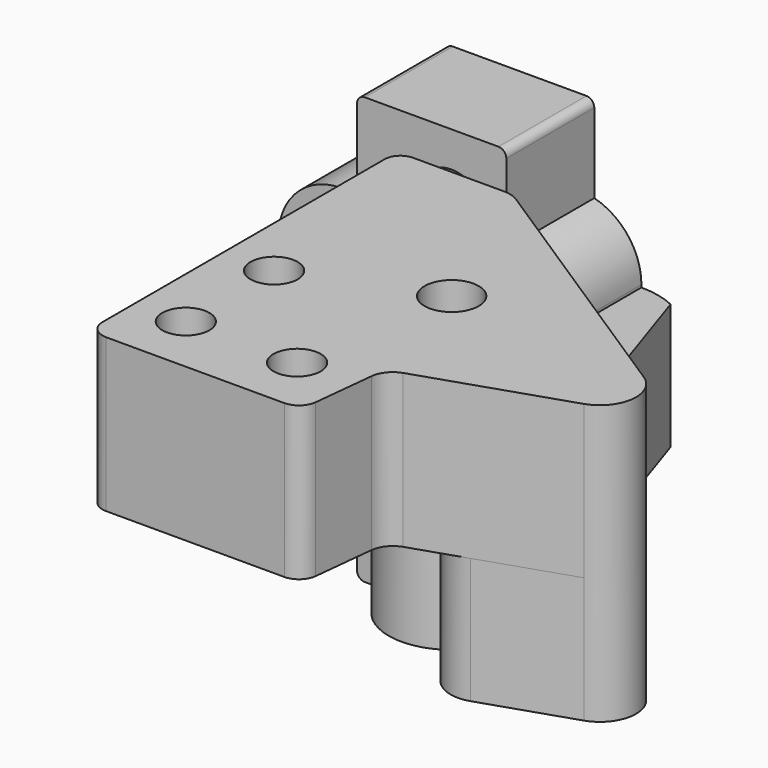
from build123d import *

# Parameters (mm, degrees)
SKETCH_R          = 2.35
PAD_DEPTH         = 7
SKETCH001_R       = 2
PAD001_DEPTH      = 4
PAD001_DEPTH_BACK = 4
SKETCH013_W       = 6
SKETCH013_H       = 3
POCKET_DEPTH      = 7
PAD003_DEPTH      = 17.743
PAD005_DEPTH      = 9.743
PAD006_DEPTH      = 17.743
SKETCH016_W       = 6
SKETCH016_H       = 3
POCKET001_DEPTH   = 7
SKETCH017_R       = 1.725
POCKET002_DEPTH   = 9.744
SKETCH018_R       = 1.5
POCKET003_DEPTH   = 17.744
SKETCH019_R       = 2.75
POCKET004_DEPTH   = 5
SKETCH006_R       = 2
PAD004_DEPTH      = 8


with BuildPart() as body:
    # Sketch → Pad (new body)
    with BuildSketch(Plane.XZ.offset(-17.582)):
        with BuildLine():
            Line((-13.8, -9.708), (-13.8, -17.74))
            ThreePointArc((-13.8, -17.74), (-12.628427, -20.568427), (-9.8, -21.74))
            Line((-9.8, -21.74), (-8.8, -21.74))
            Line((-8.8, -21.74), (-8.8, -26.805))
            ThreePointArc((-8.8, -26.805), (-8.653553, -27.158553), (-8.3, -27.305))
            Line((-8.3, -27.305), (0.2, -27.305))
            ThreePointArc((0.2, -27.305), (0.553553, -27.158553), (0.7, -26.805))
            Line((0.7, -26.805), (0.7, -21.74))
            ThreePointArc((0.7, -21.74), (2.862278, -20.316506), (3.7, -17.867017))
            Line((3.7, -17.867017), (3.7, -9.580983))
            ThreePointArc((3.7, -9.580983), (2.862278, -7.131494), (0.7, -5.708))
            Line((0.7, -5.708), (0.7, -0.643))
            ThreePointArc((0.7, -0.643), (0.553553, -0.289447), (0.2, -0.143))
            Line((0.2, -0.143), (-8.3, -0.143))
            ThreePointArc((-8.3, -0.143), (-8.653553, -0.289447), (-8.8, -0.643))
            Line((-8.8, -0.643), (-8.8, -5.708))
            Line((-8.8, -5.708), (-9.8, -5.708))
            ThreePointArc((-9.8, -5.708), (-12.628427, -6.879573), (-13.8, -9.708))
        make_face()
        with Locations((-2.8, -4.743)):
            Circle(SKETCH_R, mode=Mode.SUBTRACT)
        with Locations((-2.8, -22.705)):
            Circle(SKETCH_R, mode=Mode.SUBTRACT)
        with BuildLine():
            Line((-9.8, -7.508), (-5.4, -7.508))
            ThreePointArc((-3.2, -9.708), (-3.844365, -8.152365), (-5.4, -7.508))
            Line((-3.2, -9.708), (-3.2, -17.74))
            ThreePointArc((-5.4, -19.94), (-3.844365, -19.295635), (-3.2, -17.74))
            Line((-5.4, -19.94), (-9.8, -19.94))
            ThreePointArc((-12, -17.74), (-11.355635, -19.295635), (-9.8, -19.94))
            Line((-12, -17.74), (-12, -9.708))
            ThreePointArc((-9.8, -7.508), (-11.355635, -8.152365), (-12, -9.708))
        make_face(mode=Mode.SUBTRACT)
    extrude(amount=PAD_DEPTH)

    # Sketch001 (on DatumPlane) → Pad001 (join, two sides)
    with BuildSketch(Plane(origin=(0, -8, -13.743), x_dir=(-1, 0, 0), z_dir=(0, 0, 1))) as pad001_sk:
        with BuildLine():
            Line((-5.957868, -25.077929), (-12.397499, -5.616814))
            ThreePointArc((-4.6, -4.360232), (-9.236397, -0.411182), (-12.397499, -5.616814))
            Line((-4.6, -4.360232), (-4.6, -13.782))
            ThreePointArc((-4.6, -13.782), (-4.307107, -14.489107), (-3.6, -14.782))
            Line((-3.6, -14.782), (2.2, -14.782))
            ThreePointArc((3.2, -15.782), (2.907107, -15.074893), (2.2, -14.782))
            Line((3.2, -15.782), (3.2, -18.582))
            Line((3.2, -18.582), (-3.7, -18.582))
            Line((-3.7, -25.582), (-3.7, -18.582))
            ThreePointArc((-5.957868, -25.077929), (-4.856725, -25.45445), (-3.7, -25.582))
        make_face()
        with Locations((-8.6, -4.360232)):
            Circle(SKETCH001_R, mode=Mode.SUBTRACT)
    extrude(amount=PAD001_DEPTH)
    extrude(pad001_sk.sketch, amount=-PAD001_DEPTH_BACK)

    # Sketch013 (on Face32 of Pad001) → Pocket (cut)
    with BuildSketch(Plane(origin=(0, 0, -17.743), x_dir=(1, 0, 0), z_dir=(0, 0, -1))):
        with Locations((0.7, -9.082)):
            Rectangle(SKETCH013_W, SKETCH013_H)
        Polygon((7.472093, -0.405511), (10.320217, -1.347947), (8.435344, -7.044196), (5.587219, -6.101759), align=None)
    extrude(amount=-POCKET_DEPTH, mode=Mode.SUBTRACT)


with BuildPart() as attachment:
    # Sketch003 → Pad003 (new body)
    with BuildSketch(Plane.XY):
        with BuildLine():
            Line((-2.2, 6.782), (3.6, 6.782))
            ThreePointArc((4.6, 5.782), (4.262963, 6.444963), (3.6, 6.782))
            Line((4.6, 5.782), (4.6, 3.182))
            ThreePointArc((3.6, 2.182), (4.307107, 2.474893), (4.6, 3.182))
            Line((3.6, 2.182), (-2.2, 2.182))
            ThreePointArc((-3.2, 3.182), (-2.907107, 2.474893), (-2.2, 2.182))
            Line((-3.2, 3.182), (-3.2, 5.782))
            ThreePointArc((-2.2, 6.782), (-2.907107, 6.489107), (-3.2, 5.782))
        make_face()
    extrude(amount=-PAD003_DEPTH)

    # Sketch015 → Pad005 (join)
    with BuildSketch(Plane.XY):
        with BuildLine():
            Line((-3.2, 5.782), (-3.2, -16.66267))
            ThreePointArc((-3.2, -16.66267), (-2.858143, -17.487985), (-2.032829, -17.829842))
            Line((9.30108, -17.829842), (-2.032829, -17.829842))
            ThreePointArc((9.30108, -17.829842), (10.081813, -17.530278), (10.461785, -16.785358))
            Line((10.875582, -12.870584), (10.461785, -16.785358))
            ThreePointArc((11.892197, -11.608982), (11.198064, -12.090043), (10.875582, -12.870584))
            Line((11.892197, -11.608982), (20.980351, -8.601736))
            ThreePointArc((20.980351, -8.601736), (22.538991, -6.71184), (21.509828, -4.488805))
            Line((4.595489, 6.487307), (21.509828, -4.488805))
            ThreePointArc((4.595489, 6.487307), (4.119096, 6.70678), (3.6, 6.782))
            Line((-2.2, 6.782), (3.6, 6.782))
            ThreePointArc((-2.2, 6.782), (-2.907107, 6.489107), (-3.2, 5.782))
        make_face()
    extrude(amount=-PAD005_DEPTH)

    # Sketch014 → Pad006 (join)
    with BuildSketch(Plane.XY):
        with BuildLine():
            ThreePointArc((13.839032, -6.119485), (12.378005, -9.025582), (15.284102, -10.486609))
            Line((15.284102, -10.486609), (20.980351, -8.601736))
            ThreePointArc((20.980351, -8.601736), (22.441378, -5.695639), (19.535281, -4.234611))
            Line((13.839032, -6.119485), (19.535281, -4.234611))
        make_face()
    extrude(amount=-PAD006_DEPTH)

    # Sketch016 (on Face13 of Pad006) → Pocket001 (cut)
    with BuildSketch(Plane(origin=(0, 0, -17.743), x_dir=(1, 0, 0), z_dir=(0, 0, -1))):
        with Locations((0.7, -4.482)):
            Rectangle(SKETCH016_W, SKETCH016_H)
        Polygon((15.032785, 9.727109), (20.729034, 7.842236), (19.786597, 4.994111), (14.090348, 6.878985), align=None)
    extrude(amount=-POCKET001_DEPTH, mode=Mode.SUBTRACT)

    # Sketch017 (on Face4 of Pocket001) → Pocket002 (cut, through all)
    with BuildSketch(Plane(origin=(0, 0, -9.743), x_dir=(1, 0, 0), z_dir=(0, 0, -1))):
        with Locations((8.6, 3.639768)):
            Circle(SKETCH017_R)
    extrude(amount=-POCKET002_DEPTH, mode=Mode.SUBTRACT)

    # Sketch018 → Pocket003 (cut, through all)
    with BuildSketch(Plane.XY):
        with Locations((0, -7.018)):
            Circle(SKETCH018_R)
        with Locations((0, -14.036)):
            Circle(SKETCH018_R)
        with Locations((7.08, -14.036)):
            Circle(SKETCH018_R)
    extrude(amount=-POCKET003_DEPTH, mode=Mode.SUBTRACT)

    # Sketch019 (on Face4 of Pocket003) → Pocket004 (cut)
    with BuildSketch(Plane(origin=(0, 0, -9.743), x_dir=(1, 0, 0), z_dir=(0, 0, -1))):
        with Locations((0, 14.036)):
            Circle(SKETCH019_R)
        with Locations((7.08, 14.036)):
            Circle(SKETCH019_R)
        with Locations((0, 7.018)):
            Circle(SKETCH019_R)
    extrude(amount=-POCKET004_DEPTH, mode=Mode.SUBTRACT)


with BuildPart() as rotator:
    # Sketch006 (on DatumPlane) → Pad004 (new body)
    with BuildSketch(Plane.XY.offset(-9.743)):
        with Locations((8.6, -3.639768)):
            Circle(SKETCH006_R)
    extrude(amount=-PAD004_DEPTH)


solid = Compound([body.part, attachment.part, rotator.part])
